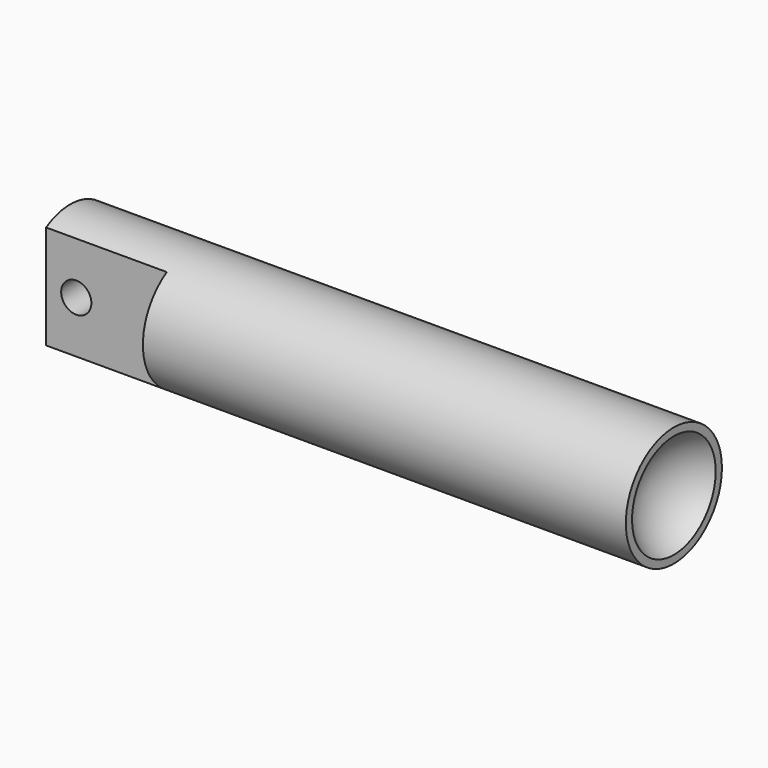
from build123d import *

# Parameters (mm, degrees)
F0_R     = 12.6365
F1_DEPTH = 127
F2_W     = 9.589796
F2_H     = 37.986641
F2_W_2   = 7.516326
F2_H_2   = 38.45551
F3_DEPTH = 25.4
F4_R     = 3.175
F5_DEPTH = 12.7


with BuildPart() as f1:
    # F0 (on Right) → F1 (new body)
    with BuildSketch(Plane.YZ):
        Circle(F0_R)
    extrude(amount=F1_DEPTH)

    # F2 (on Right) → F3 (cut)
    with BuildSketch(Plane.YZ):
        with Locations((11.144898, 0.884348)):
            Rectangle(F2_W, F2_H)
        with Locations((-10.108163, 0.600416)):
            Rectangle(F2_W_2, F2_H_2)
    extrude(amount=F3_DEPTH, mode=Mode.SUBTRACT)

    # F4 (on Front) → F5 (cut, symmetric)
    with BuildSketch(Plane.XZ):
        with Locations((6.35, 0)):
            Circle(F4_R)
    extrude(amount=F5_DEPTH, both=True, mode=Mode.SUBTRACT)

    # F6 (on Front) → F7 (revolve, cut)
    with BuildSketch(Plane.XZ):
        with BuildLine():
            Line((120.65, 0), (146.05, 0))
            ThreePointArc((146.05, 0), (133.35, 12.7), (120.65, 0))
        make_face()
    revolve(axis=Axis((133.35, 0, 0), (1, 0, 0)), mode=Mode.SUBTRACT)


solid = f1.part
